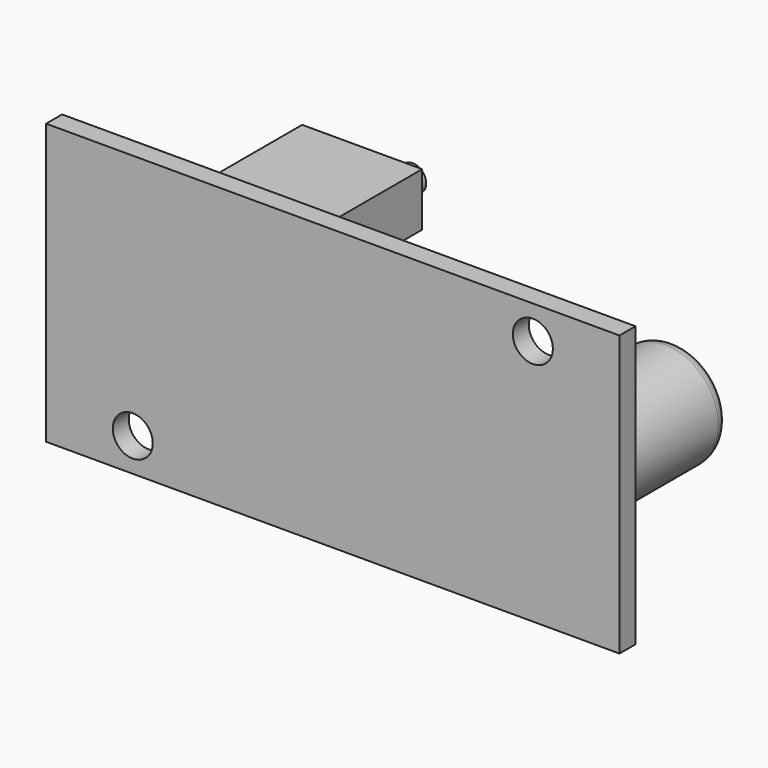
from build123d import *

# Parameters (mm, degrees)
SKETCH_W             = 43
SKETCH_H             = 21
SKETCH_R             = 1.5
PAD_DEPTH            = 1.5
SKETCH001_R          = 4
PAD001_DEPTH         = 10
FILLET_R             = 1
SKETCH002_W          = 12
SKETCH002_H          = 12
PAD002_DEPTH         = 7
FILLET001_R          = 2
SKETCH003_W          = 9
SKETCH003_H          = 4
PAD003_DEPTH         = 10
SKETCH004_R          = 1
PAD004_DEPTH         = 1
SKETCH005_W          = 9
SKETCH005_H          = 7
PAD005_DEPTH         = 3
SKETCH006_W          = 4
SKETCH006_H          = 2
PAD006_DEPTH         = 2
BODY_PLACEMENT_ANGLE = 180


with BuildPart() as part:
    # Sketch → Pad (new body)
    with BuildSketch(Plane.XZ):
        with Locations((21.5, 10.5)):
            Rectangle(SKETCH_W, SKETCH_H)
        with Locations((6.5, 18.5)):
            Circle(SKETCH_R, mode=Mode.SUBTRACT)
        with Locations((36.5, 2.5)):
            Circle(SKETCH_R, mode=Mode.SUBTRACT)
    extrude(amount=PAD_DEPTH)

    # Sketch001 (on Face8 of Pad) → Pad001 (join)
    with BuildSketch(Plane.XZ.offset(1.5)):
        with Locations((5, 10.5)):
            Circle(SKETCH001_R)
        with Locations((38, 10.5)):
            Circle(SKETCH001_R)
    extrude(amount=PAD001_DEPTH)

    # Fillet
    fillet_edges = [part.edges().sort_by_distance(p)[0] for p in [
        (1, -11.5, 10.5),
        (34, -11.5, 10.5),
    ]]
    fillet(fillet_edges, radius=FILLET_R)

    # Sketch002 (on Face3 of Fillet) → Pad002 (join)
    with BuildSketch(Plane.XZ.offset(1.5)):
        with Locations((16, 14)):
            Rectangle(SKETCH002_W, SKETCH002_H)
    extrude(amount=PAD002_DEPTH)

    # Fillet001
    fillet001_edges = [part.edges().sort_by_distance(p)[0] for p in [
        (22, -5, 20),
        (22, -5, 8),
        (10, -5, 20),
        (10, -5, 8),
    ]]
    fillet(fillet001_edges, radius=FILLET001_R)

    # Sketch003 (on Face1 of Fillet001) → Pad003 (join)
    with BuildSketch(Plane.XZ.offset(1.5)):
        with Locations((14.5, 3.5)):
            Rectangle(SKETCH003_W, SKETCH003_H)
    extrude(amount=PAD003_DEPTH)

    # Sketch004 (on Face25 of Pad003) → Pad004 (join)
    with BuildSketch(Plane.XZ.offset(11.5)):
        with Locations((17.5, 3)):
            Circle(SKETCH004_R)
    extrude(amount=PAD004_DEPTH)

    # Sketch005 (on Face1 of Pad004) → Pad005 (join)
    with BuildSketch(Plane.XZ.offset(1.5)):
        with Locations((27.5, 5.5)):
            Rectangle(SKETCH005_W, SKETCH005_H)
    extrude(amount=PAD005_DEPTH)

    # Sketch006 (on Face1 of Pad005) → Pad006 (join)
    with BuildSketch(Plane.XZ.offset(1.5)):
        with Locations((29, 19)):
            Rectangle(SKETCH006_W, SKETCH006_H)
    extrude(amount=PAD006_DEPTH)


with BuildPart() as part_1:
    # Body placement: moved
    add(part.part.rotate(Axis((0, 0, 0), (1, 0, 0)), BODY_PLACEMENT_ANGLE))


solid = part_1.part
